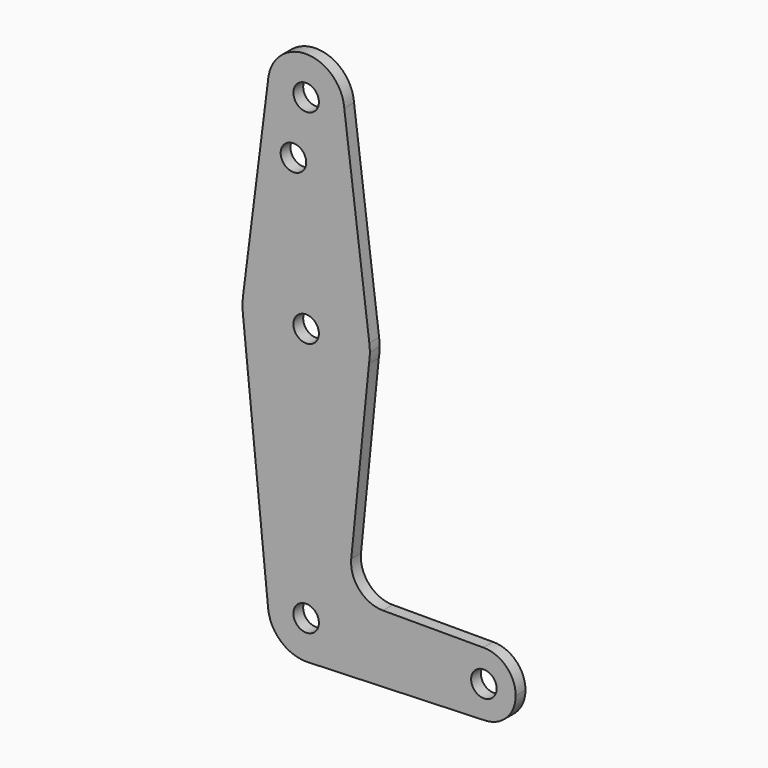
from build123d import *

# Parameters (mm, degrees)
F0_R     = 3.175
F1_DEPTH = 3.048


with BuildPart() as f1:
    # F0 (on Front) → F1 (new body)
    with BuildSketch(Plane.XZ):
        with BuildLine():
            ThreePointArc((-45.878261, 29.934437), (-36.688395, 19.786207), (-26.849014, 29.306018))
            ThreePointArc((-26.849014, 29.306018), (-26.85574, 29.663923), (-26.875911, 30.021323))
            ThreePointArc((-26.875911, 30.021323), (-35.849759, 38.816579), (-45.735949, 31.060954))
            Line((-45.735949, 31.060954), (-45.878261, 29.934437))
        make_face()
        with Locations((-36.374014, 29.306018)):
            Circle(F0_R, mode=Mode.SUBTRACT)
        with BuildLine():
            ThreePointArc((-26.875911, 30.021323), (-26.85574, 29.663923), (-26.849014, 29.306018))
            ThreePointArc((-26.849014, 29.306018), (-36.688395, 19.786207), (-45.878261, 29.934437))
            Line((-45.878261, 29.934437), (-52.124026, -19.505828))
            ThreePointArc((-52.124026, -19.505828), (-36.374014, -5.618982), (-20.624002, -19.505828))
            Line((-20.624002, -19.505828), (-26.875911, 30.021323))
        make_face()
        with Locations((-39.549014, 15.031218)):
            Circle(F0_R, mode=Mode.SUBTRACT)
        with BuildLine():
            ThreePointArc((-45.735949, 31.060954), (-45.823906, 30.499818), (-45.878261, 29.934437))
            Line((-45.878261, 29.934437), (-45.735949, 31.060954))
        make_face()
        with BuildLine():
            ThreePointArc((-20.499014, -21.493982), (-20.530292, -20.497943), (-20.624002, -19.505828))
            ThreePointArc((-20.624002, -19.505828), (-36.374014, -5.618982), (-52.124026, -19.505828))
            ThreePointArc((-52.124026, -19.505828), (-52.249013, -21.500337), (-52.122429, -23.494746))
            ThreePointArc((-52.122429, -23.494746), (-36.659813, -37.36641), (-20.707836, -24.060398))
            ThreePointArc((-20.707836, -24.060398), (-20.551305, -22.781431), (-20.499014, -21.493982))
        make_face()
        with Locations((-36.374014, -21.493982)):
            Circle(F0_R, mode=Mode.SUBTRACT)
        with BuildLine():
            ThreePointArc((-20.707836, -24.060398), (-36.659813, -37.36641), (-52.122429, -23.494746))
            Line((-52.122429, -23.494746), (-45.851352, -85.94566))
            ThreePointArc((-45.851352, -85.94566), (-36.850449, -75.480905), (-26.849014, -84.993982))
            ThreePointArc((-26.849014, -84.993982), (-29.442907, -91.527387), (-35.811822, -94.502377))
            Line((-35.811822, -94.502377), (8.206099, -92.946468))
            ThreePointArc((8.206099, -92.946468), (-0.009202, -85.216761), (7.800441, -77.077411))
            Line((7.800441, -77.077411), (-17.224889, -77.077411))
            ThreePointArc((-17.224889, -77.077411), (-23.119598, -74.461823), (-25.13563, -68.336097))
            Line((-25.13563, -68.336097), (-20.707836, -24.060398))
        make_face()
        with BuildLine():
            ThreePointArc((-26.849014, -84.993982), (-36.850449, -75.480905), (-45.851352, -85.94566))
            ThreePointArc((-45.851352, -85.94566), (-42.72278, -92.094601), (-36.263452, -94.518341))
            Line((-36.263452, -94.518341), (-35.811822, -94.502377))
            ThreePointArc((-35.811822, -94.502377), (-29.442907, -91.527387), (-26.849014, -84.993982))
        make_face()
        with Locations((-36.374014, -84.993982)):
            Circle(F0_R, mode=Mode.SUBTRACT)
        with BuildLine():
            Line((-35.811822, -94.502377), (-36.263452, -94.518341))
            ThreePointArc((-36.263452, -94.518341), (-36.037542, -94.513038), (-35.811822, -94.502377))
        make_face()
        with BuildLine():
            ThreePointArc((15.863206, -85.013922), (13.493902, -79.357148), (7.800441, -77.077411))
            ThreePointArc((7.800441, -77.077411), (-0.009202, -85.216761), (8.206099, -92.946468))
            ThreePointArc((8.206099, -92.946468), (13.636639, -90.526557), (15.863206, -85.013922))
        make_face()
        with Locations((7.925706, -85.013922)):
            Circle(F0_R, mode=Mode.SUBTRACT)
    extrude(amount=F1_DEPTH)


solid = f1.part
